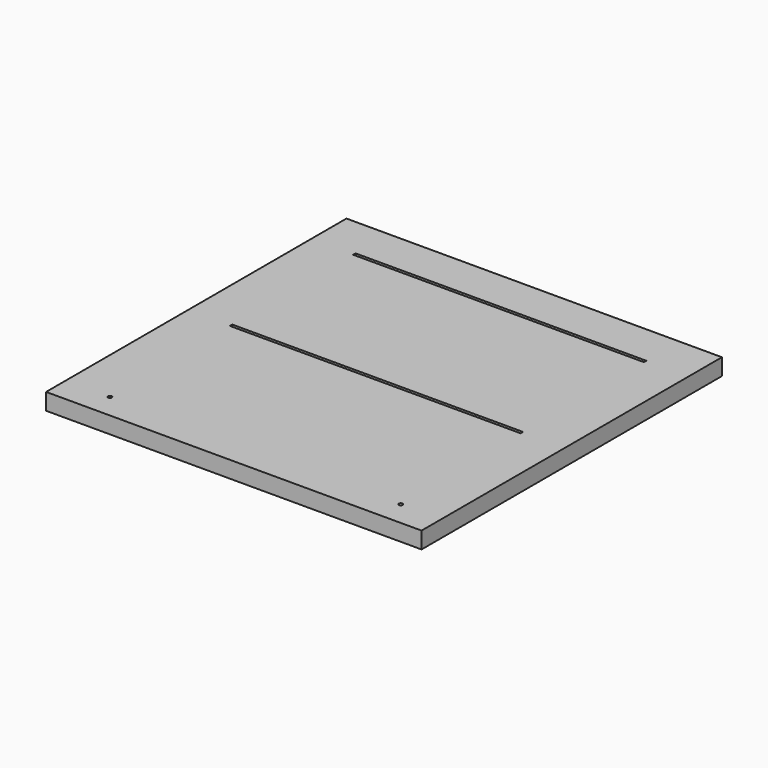
from build123d import *

# Parameters (mm, degrees)
F0_W     = 497
F0_H     = 497
F1_DEPTH = 22
F2_W     = 385
F2_H     = 4
F2_R     = 2.5
F3_DEPTH = 22


with BuildPart() as f1:
    # F0 (on Top) → F1 (new body)
    with BuildSketch(Plane.XY):
        with Locations((248.5, 248.5)):
            Rectangle(F0_W, F0_H)
    extrude(amount=F1_DEPTH)

    # F2 (on face) → F3 (cut, through all)
    with BuildSketch(Plane.XY.offset(22)):
        with Locations((248.5, 440)):
            Rectangle(F2_W, F2_H)
        with Locations((58.5, 32.5)):
            Circle(F2_R)
        with Locations((443.5, 32.5)):
            Circle(F2_R)
        with Locations((248.5, 236)):
            Rectangle(F2_W, F2_H)
    extrude(amount=-F3_DEPTH, mode=Mode.SUBTRACT)


solid = f1.part
